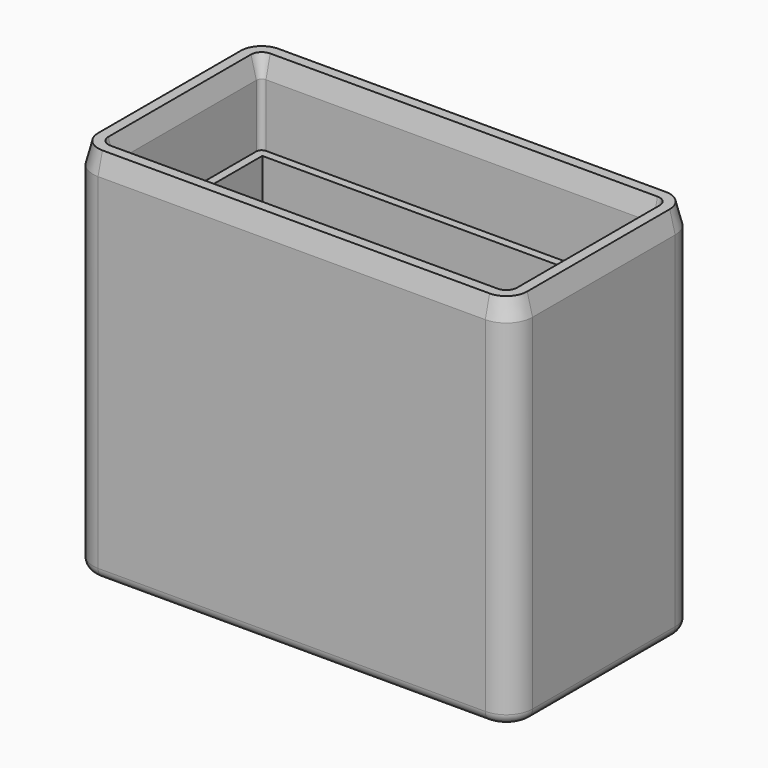
from build123d import *

# Parameters (mm, degrees)
F1_DEPTH = 57.15
F0_W     = 57.912
F0_H     = 26.162
F2_DEPTH = 44.45
F3_SIZE2 = 3.175
F3_SIZE  = 0.8128
F4_R     = 1.5748


with BuildPart() as f1:
    # F0 (on Top) → F1 (new body)
    with BuildSketch(Plane.XY):
        with BuildLine():
            Line((29.4132, 17.526), (-29.4132, 17.526))
            ThreePointArc((-29.4132, 17.526), (-32.233000422, 16.358000422), (-33.401, 13.5382))
            Line((-33.401, 13.5382), (-33.401, -13.5382))
            ThreePointArc((-33.401, -13.5382), (-32.233000422, -16.358000422), (-29.4132, -17.526))
            Line((-29.4132, -17.526), (29.4132, -17.526))
            ThreePointArc((29.4132, -17.526), (32.233000422, -16.358000422), (33.401, -13.5382))
            Line((33.401, -13.5382), (33.401, 13.5382))
            ThreePointArc((33.401, 13.5382), (32.233000422, 16.358000422), (29.4132, 17.526))
        make_face()
        with BuildLine():
            Line((-29.4132, 14.351), (29.4132, 14.351))
            ThreePointArc((29.4132, 14.351), (29.9879363917, 14.1129363917), (30.226, 13.5382))
            Line((30.226, 13.5382), (30.226, -13.5382))
            ThreePointArc((30.226, -13.5382), (29.9879363917, -14.1129363917), (29.4132, -14.351))
            Line((29.4132, -14.351), (-29.4132, -14.351))
            ThreePointArc((-29.4132, -14.351), (-29.9879363917, -14.1129363917), (-30.226, -13.5382))
            Line((-30.226, -13.5382), (-30.226, 13.5382))
            ThreePointArc((-30.226, 13.5382), (-29.9879363917, 14.1129363917), (-29.4132, 14.351))
        make_face(mode=Mode.SUBTRACT)
    extrude(amount=F1_DEPTH)

    # F0 (on Top) → F2 (join)
    with BuildSketch(Plane.XY):
        with BuildLine():
            ThreePointArc((30.226, 13.5382), (29.9879363917, 14.1129363917), (29.4132, 14.351))
            Line((29.4132, 14.351), (-29.4132, 14.351))
            ThreePointArc((-29.4132, 14.351), (-29.9879363917, 14.1129363917), (-30.226, 13.5382))
            Line((-30.226, 13.5382), (-30.226, -13.5382))
            ThreePointArc((-30.226, -13.5382), (-29.9879363917, -14.1129363917), (-29.4132, -14.351))
            Line((-29.4132, -14.351), (29.4132, -14.351))
            ThreePointArc((29.4132, -14.351), (29.9879363917, -14.1129363917), (30.226, -13.5382))
            Line((30.226, -13.5382), (30.226, 13.5382))
        make_face()
        Rectangle(F0_W, F0_H, mode=Mode.SUBTRACT)
    extrude(amount=F2_DEPTH)

    # F3
    f3_edges = [f1.edges().sort_by_distance(p)[0] for p in [
        (0, 17.526, 57.15),
        (-32.233, 16.358, 57.15),
        (-33.401, 0, 57.15),
        (-32.233, -16.358, 57.15),
        (0, -17.526, 57.15),
        (32.233, -16.358, 57.15),
        (33.401, 0, 57.15),
        (32.233, 16.358, 57.15),
        (0, 14.351, 57.15),
        (29.987936, 14.112936, 57.15),
        (30.226, 0, 57.15),
        (29.987936, -14.112936, 57.15),
        (0, -14.351, 57.15),
        (-29.987936, -14.112936, 57.15),
        (-30.226, 0, 57.15),
        (-29.987936, 14.112936, 57.15),
    ]]
    f3_side = f1.faces().sort_by_distance((0, 16.771603, 57.15))[0]
    chamfer(f3_edges, length=F3_SIZE, length2=F3_SIZE2, reference=f3_side)

    # F4
    f4_edges = [f1.edges().sort_by_distance(p)[0] for p in [
        (0, 17.526, 0),
        (-32.233, 16.358, 0),
        (-33.401, 0, 0),
        (-32.233, -16.358, 0),
        (0, -17.526, 0),
        (32.233, -16.358, 0),
        (33.401, 0, 0),
        (32.233, 16.358, 0),
        (0, -13.081, 0),
        (-28.956, 0, 0),
        (0, 13.081, 0),
        (28.956, 0, 0),
    ]]
    fillet(f4_edges, radius=F4_R)


solid = f1.part
